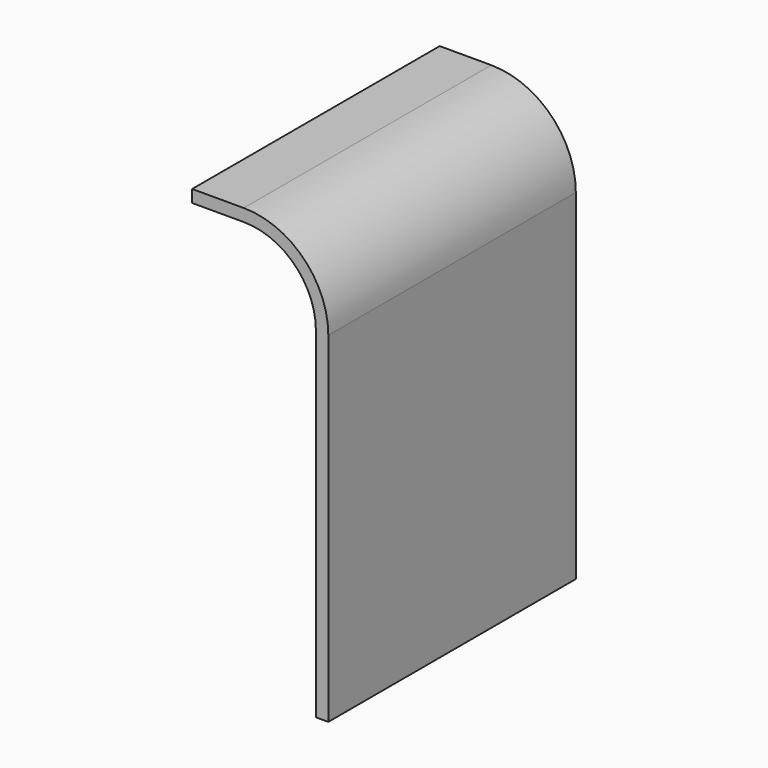
from build123d import *

# Parameters (mm, degrees)
F0_W     = 1.2
F0_H     = 33
F1_DEPTH = 30


with BuildPart() as f1:
    # F0 (on Front) → F1 (new body)
    with BuildSketch(Plane.XZ):
        with Locations((0.6, 16.5)):
            Rectangle(F0_W, F0_H)
        with BuildLine():
            ThreePointArc((-7, 40), (-2.050253, 37.949747), (0, 33))
            Line((0, 33), (1.2, 33))
            ThreePointArc((1.2, 33), (-1.201724, 38.798276), (-7, 41.2))
            Line((-7, 41.2), (-12, 41.2))
            Line((-12, 41.2), (-12, 40))
            Line((-12, 40), (-7, 40))
        make_face()
    extrude(amount=F1_DEPTH)


solid = f1.part
